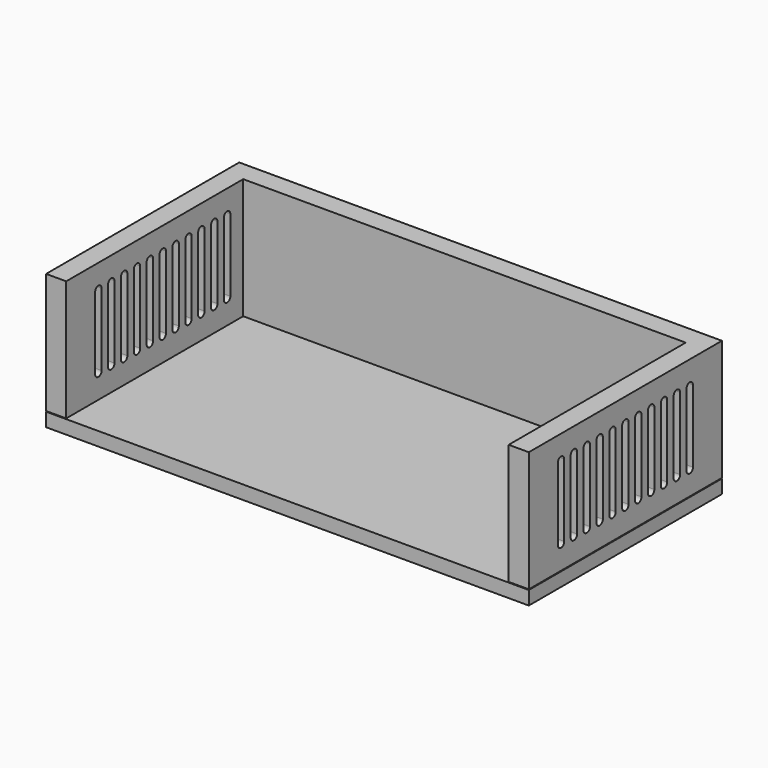
from build123d import *

# Parameters (mm, degrees)
F0_W     = 152.4
F0_H     = 76.2
F1_DEPTH = 4.318
F4_DEPTH = 38.1
F6_DEPTH = 162.052


with BuildPart() as f1:
    # F0 (on Top) → F1 (new body)
    with BuildSketch(Plane.XY):
        with Locations((76.2, -38.1)):
            Rectangle(F0_W, F0_H)
    extrude(amount=F1_DEPTH)


with BuildPart() as f4:
    # F3 (on offset) → F4 (new body)
    with BuildSketch(Plane.XY.offset(4.5212)):
        Polygon((6.35, 0), (0, 0), (0, -76.2), (6.35, -76.2), (6.35, -6.35), (146.05, -6.35), (146.05, -76.2), (152.4, -76.2), (152.4, 0), (146.05, 0), align=None)
    extrude(amount=F4_DEPTH)

    # F5 (on face) → F6 (cut)
    with BuildSketch(Plane.YZ.offset(152.4)):
        with BuildLine():
            ThreePointArc((-63.5, 36.2712), (-64.398026, 35.899226), (-64.77, 35.0012))
            Line((-64.77, 35.0012), (-64.77, 12.1412))
            ThreePointArc((-64.77, 12.1412), (-64.398026, 11.243174), (-63.5, 10.8712))
            ThreePointArc((-63.5, 10.8712), (-62.601974, 11.243174), (-62.23, 12.1412))
            Line((-62.23, 12.1412), (-62.23, 35.0012))
            ThreePointArc((-62.23, 35.0012), (-62.601974, 35.899226), (-63.5, 36.2712))
        make_face()
        with BuildLine():
            ThreePointArc((-58.42, 36.2712), (-59.318026, 35.899226), (-59.69, 35.0012))
            Line((-59.69, 35.0012), (-59.69, 12.1412))
            ThreePointArc((-59.69, 12.1412), (-59.318026, 11.243174), (-58.42, 10.8712))
            ThreePointArc((-58.42, 10.8712), (-57.521974, 11.243174), (-57.15, 12.1412))
            Line((-57.15, 12.1412), (-57.15, 35.0012))
            ThreePointArc((-57.15, 35.0012), (-57.521974, 35.899226), (-58.42, 36.2712))
        make_face()
        with BuildLine():
            ThreePointArc((-53.34, 36.2712), (-54.238026, 35.899226), (-54.61, 35.0012))
            Line((-54.61, 35.0012), (-54.61, 12.1412))
            ThreePointArc((-54.61, 12.1412), (-54.238026, 11.243174), (-53.34, 10.8712))
            ThreePointArc((-53.34, 10.8712), (-52.441974, 11.243174), (-52.07, 12.1412))
            Line((-52.07, 12.1412), (-52.07, 35.0012))
            ThreePointArc((-52.07, 35.0012), (-52.441974, 35.899226), (-53.34, 36.2712))
        make_face()
        with BuildLine():
            ThreePointArc((-48.26, 36.2712), (-49.158026, 35.899226), (-49.53, 35.0012))
            Line((-49.53, 35.0012), (-49.53, 12.1412))
            ThreePointArc((-49.53, 12.1412), (-49.158026, 11.243174), (-48.26, 10.8712))
            ThreePointArc((-48.26, 10.8712), (-47.361974, 11.243174), (-46.99, 12.1412))
            Line((-46.99, 12.1412), (-46.99, 35.0012))
            ThreePointArc((-46.99, 35.0012), (-47.361974, 35.899226), (-48.26, 36.2712))
        make_face()
        with BuildLine():
            ThreePointArc((-43.18, 36.2712), (-44.078026, 35.899226), (-44.45, 35.0012))
            Line((-44.45, 35.0012), (-44.45, 12.1412))
            ThreePointArc((-44.45, 12.1412), (-44.078026, 11.243174), (-43.18, 10.8712))
            ThreePointArc((-43.18, 10.8712), (-42.281974, 11.243174), (-41.91, 12.1412))
            Line((-41.91, 12.1412), (-41.91, 35.0012))
            ThreePointArc((-41.91, 35.0012), (-42.281974, 35.899226), (-43.18, 36.2712))
        make_face()
        with BuildLine():
            ThreePointArc((-38.1, 36.2712), (-38.998026, 35.899226), (-39.37, 35.0012))
            Line((-39.37, 35.0012), (-39.37, 12.1412))
            ThreePointArc((-39.37, 12.1412), (-38.998026, 11.243174), (-38.1, 10.8712))
            ThreePointArc((-38.1, 10.8712), (-37.201974, 11.243174), (-36.83, 12.1412))
            Line((-36.83, 12.1412), (-36.83, 35.0012))
            ThreePointArc((-36.83, 35.0012), (-37.201974, 35.899226), (-38.1, 36.2712))
        make_face()
        with BuildLine():
            ThreePointArc((-33.02, 36.2712), (-33.918026, 35.899226), (-34.29, 35.0012))
            Line((-34.29, 35.0012), (-34.29, 12.1412))
            ThreePointArc((-34.29, 12.1412), (-33.918026, 11.243174), (-33.02, 10.8712))
            ThreePointArc((-33.02, 10.8712), (-32.121974, 11.243174), (-31.75, 12.1412))
            Line((-31.75, 12.1412), (-31.75, 35.0012))
            ThreePointArc((-31.75, 35.0012), (-32.121974, 35.899226), (-33.02, 36.2712))
        make_face()
        with BuildLine():
            ThreePointArc((-27.94, 36.2712), (-28.838026, 35.899226), (-29.21, 35.0012))
            Line((-29.21, 35.0012), (-29.21, 12.1412))
            ThreePointArc((-29.21, 12.1412), (-28.838026, 11.243174), (-27.94, 10.8712))
            ThreePointArc((-27.94, 10.8712), (-27.041974, 11.243174), (-26.67, 12.1412))
            Line((-26.67, 12.1412), (-26.67, 35.0012))
            ThreePointArc((-26.67, 35.0012), (-27.041974, 35.899226), (-27.94, 36.2712))
        make_face()
        with BuildLine():
            ThreePointArc((-22.86, 36.2712), (-23.758026, 35.899226), (-24.13, 35.0012))
            Line((-24.13, 35.0012), (-24.13, 12.1412))
            ThreePointArc((-24.13, 12.1412), (-23.758026, 11.243174), (-22.86, 10.8712))
            ThreePointArc((-22.86, 10.8712), (-21.961974, 11.243174), (-21.59, 12.1412))
            Line((-21.59, 12.1412), (-21.59, 35.0012))
            ThreePointArc((-21.59, 35.0012), (-21.961974, 35.899226), (-22.86, 36.2712))
        make_face()
        with BuildLine():
            ThreePointArc((-17.78, 36.2712), (-18.678026, 35.899226), (-19.05, 35.0012))
            Line((-19.05, 35.0012), (-19.05, 12.1412))
            ThreePointArc((-19.05, 12.1412), (-18.678026, 11.243174), (-17.78, 10.8712))
            ThreePointArc((-17.78, 10.8712), (-16.881974, 11.243174), (-16.51, 12.1412))
            Line((-16.51, 12.1412), (-16.51, 35.0012))
            ThreePointArc((-16.51, 35.0012), (-16.881974, 35.899226), (-17.78, 36.2712))
        make_face()
        with BuildLine():
            ThreePointArc((-12.7, 36.2712), (-13.598026, 35.899226), (-13.97, 35.0012))
            Line((-13.97, 35.0012), (-13.97, 12.1412))
            ThreePointArc((-13.97, 12.1412), (-13.598026, 11.243174), (-12.7, 10.8712))
            ThreePointArc((-12.7, 10.8712), (-11.801974, 11.243174), (-11.43, 12.1412))
            Line((-11.43, 12.1412), (-11.43, 35.0012))
            ThreePointArc((-11.43, 35.0012), (-11.801974, 35.899226), (-12.7, 36.2712))
        make_face()
    extrude(amount=-F6_DEPTH, mode=Mode.SUBTRACT)


solid = Compound([f1.part, f4.part])
